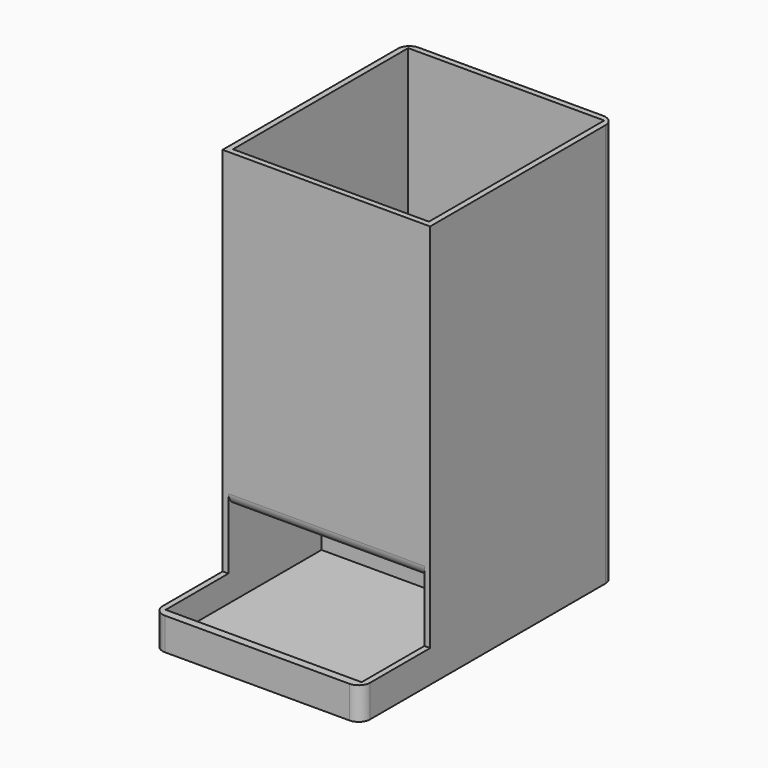
from build123d import *

# Parameters (mm, degrees)
CYLINDER_R           = 35
CYLINDER_DEPTH       = 100
CYLINDER_PITCH_ANGLE = 90
BOX003_W             = 170
BOX003_H             = 169
BOX003_DEPTH         = 74
BOX001_W             = 170
BOX001_H             = 190
BOX001_DEPTH         = 166
BOX_W                = 180
BOX_H                = 200
BOX_DEPTH            = 350
BOX002_W             = 180
BOX002_H             = 80
BOX002_DEPTH         = 28
FILLET_R             = 10
FILLET001_R          = 10
FILLET002_R          = 10
FILLET003_R          = 10
FILLET004_R          = 10
FILLET005_R          = 15
FILLET006_R          = 10


with BuildPart() as cylinder:
    # Cylinder → Cylinder (new body)
    with BuildSketch(Plane.XY):
        Circle(CYLINDER_R)
    extrude(amount=CYLINDER_DEPTH)


with BuildPart() as cylinder_1:
    # Cylinder pitch: moved
    add(cylinder.part.rotate(Axis((0, 0, 0), (0, 1, 0)), CYLINDER_PITCH_ANGLE))


with BuildPart() as cylinder_2:
    # Cylinder placement: moved
    add(cylinder_1.part.moved(Location((43, 100, 70))))


with BuildPart() as cube003:
    # Box003 → Box003 (new body)
    with BuildSketch(Plane(origin=(5, -68, 5), x_dir=(1, 0, 0), z_dir=(0, 0, 1))):
        with Locations((85, 84.5)):
            Rectangle(BOX003_W, BOX003_H)
    extrude(amount=BOX003_DEPTH)


with BuildPart() as cube001:
    # Box001 → Box001 (new body)
    with BuildSketch(Plane(origin=(5, 5, 187), x_dir=(1, 0, 0), z_dir=(0, 0, 1))):
        with Locations((85, 95)):
            Rectangle(BOX001_W, BOX001_H)
    extrude(amount=BOX001_DEPTH)


with BuildPart() as cone:
    # Cone → Cone (revolve)
    with BuildSketch(Plane(origin=(90, 100, 88), x_dir=(1, 0, 0), z_dir=(0, -1, 0))):
        Polygon((0, 0), (40, 0), (85, 100), (0, 100), align=None)
    revolve(axis=Axis((90, 100, 88), (0, 0, 1)))


with BuildPart() as cut001:
    # Box → Box (new body)
    with BuildSketch(Plane.XY):
        with Locations((90, 100)):
            Rectangle(BOX_W, BOX_H)
    extrude(amount=BOX_DEPTH)

    # Cut: cut Cone
    add(cone.part, mode=Mode.SUBTRACT)

    # Cut001: cut Cube001
    add(cube001.part, mode=Mode.SUBTRACT)


with BuildPart() as fillet006:
    # Box002 → Box002 (new body)
    with BuildSketch(Plane(origin=(0, -75, 0), x_dir=(1, 0, 0), z_dir=(0, 0, 1))):
        with Locations((90, 40)):
            Rectangle(BOX002_W, BOX002_H)
    extrude(amount=BOX002_DEPTH)

    # Fusion: union Cut001
    add(cut001.part)

    # Cut002: cut Cube003
    add(cube003.part, mode=Mode.SUBTRACT)

    # Cut003: cut Cylinder
    add(cylinder_2.part, mode=Mode.SUBTRACT)

    # Fillet
    fillet_edges = [fillet006.edges().sort_by_distance(p)[0] for p in [
        (180, 200, 175),
    ]]
    fillet(fillet_edges, radius=FILLET_R)

    # Fillet001
    fillet001_edges = [fillet006.edges().sort_by_distance(p)[0] for p in [
        (0, 200, 175),
    ]]
    fillet(fillet001_edges, radius=FILLET001_R)

    # Fillet002
    fillet002_edges = [fillet006.edges().sort_by_distance(p)[0] for p in [
        (180, -75, 14),
    ]]
    fillet(fillet002_edges, radius=FILLET002_R)

    # Fillet003
    fillet003_edges = [fillet006.edges().sort_by_distance(p)[0] for p in [
        (0, -75, 14),
    ]]
    fillet(fillet003_edges, radius=FILLET003_R)

    # Fillet004
    fillet004_edges = [fillet006.edges().sort_by_distance(p)[0] for p in [
        (5.45, 100, 187),
    ]]
    fillet(fillet004_edges, radius=FILLET004_R)

    # Fillet005
    fillet005_edges = [fillet006.edges().sort_by_distance(p)[0] for p in [
        (93, 101, 35.014289),
    ]]
    fillet(fillet005_edges, radius=FILLET005_R)

    # Fillet006
    fillet006_edges = [fillet006.edges().sort_by_distance(p)[0] for p in [
        (90, 0, 79),
    ]]
    fillet(fillet006_edges, radius=FILLET006_R)


solid = fillet006.part
